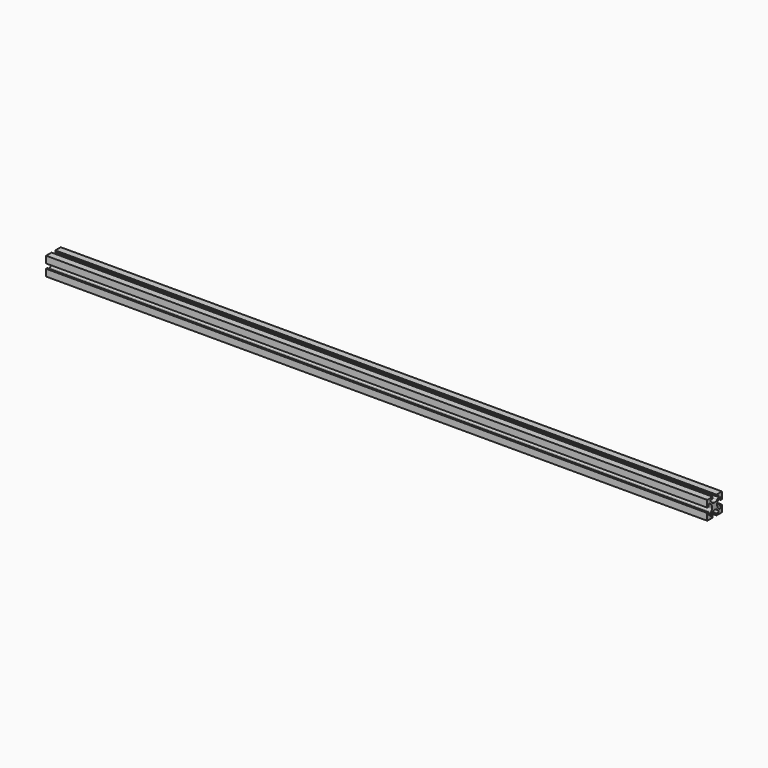
from build123d import *

# Parameters (mm, degrees)
F1_DEPTH = 914.4


with BuildPart() as f1:
    # F0 (on Right) → F1 (new body)
    with BuildSketch(Plane.YZ):
        with BuildLine():
            Line((10.4902, 12.7), (3.2385, 12.7))
            Line((3.2385, 12.7), (3.2385, 10.4902))
            Line((3.2385, 10.4902), (5.861584, 10.4902))
            ThreePointArc((5.861584, 10.4902), (7.034911, 9.706208), (6.75961, 8.322174))
            Line((6.75961, 8.322174), (4.433833, 5.996398))
            ThreePointArc((4.433833, 5.996398), (2.785762, 4.895192), (0.841731, 4.5085))
            Line((0.841731, 4.5085), (0, 4.5085))
            Line((0, 4.5085), (-0.841731, 4.5085))
            ThreePointArc((-0.841731, 4.5085), (-2.785762, 4.895192), (-4.433833, 5.996398))
            Line((-4.433833, 5.996398), (-6.75961, 8.322174))
            ThreePointArc((-6.75961, 8.322174), (-7.034911, 9.706208), (-5.861584, 10.4902))
            Line((-5.861584, 10.4902), (-3.2385, 10.4902))
            Line((-3.2385, 10.4902), (-3.2385, 12.7))
            Line((-3.2385, 12.7), (-10.4902, 12.7))
            Line((-10.4902, 12.7), (-12.7, 12.7))
            Line((-12.7, 12.7), (-12.7, 10.4902))
            Line((-12.7, 10.4902), (-12.7, 3.2385))
            Line((-12.7, 3.2385), (-10.4902, 3.2385))
            Line((-10.4902, 3.2385), (-10.4902, 5.861584))
            ThreePointArc((-10.4902, 5.861584), (-9.706208, 7.034911), (-8.322174, 6.75961))
            Line((-8.322174, 6.75961), (-5.996398, 4.433833))
            ThreePointArc((-5.996398, 4.433833), (-4.895192, 2.785762), (-4.5085, 0.841731))
            Line((-4.5085, 0.841731), (-4.5085, 0))
            Line((-4.5085, 0), (-4.5085, -0.841731))
            ThreePointArc((-4.5085, -0.841731), (-4.895192, -2.785762), (-5.996398, -4.433833))
            Line((-5.996398, -4.433833), (-8.322174, -6.75961))
            ThreePointArc((-8.322174, -6.75961), (-9.706208, -7.034911), (-10.4902, -5.861584))
            Line((-10.4902, -5.861584), (-10.4902, -3.2385))
            Line((-10.4902, -3.2385), (-12.7, -3.2385))
            Line((-12.7, -3.2385), (-12.7, -10.4902))
            Line((-12.7, -10.4902), (-12.7, -12.7))
            Line((-12.7, -12.7), (-10.4902, -12.7))
            Line((-10.4902, -12.7), (-3.2385, -12.7))
            Line((-3.2385, -12.7), (-3.2385, -10.4902))
            Line((-3.2385, -10.4902), (-5.861584, -10.4902))
            ThreePointArc((-5.861584, -10.4902), (-7.034911, -9.706208), (-6.75961, -8.322174))
            Line((-6.75961, -8.322174), (-4.433833, -5.996398))
            ThreePointArc((-4.433833, -5.996398), (-2.785762, -4.895192), (-0.841731, -4.5085))
            Line((-0.841731, -4.5085), (0, -4.5085))
            Line((0, -4.5085), (0.841731, -4.5085))
            ThreePointArc((0.841731, -4.5085), (2.785762, -4.895192), (4.433833, -5.996398))
            Line((4.433833, -5.996398), (6.75961, -8.322174))
            ThreePointArc((6.75961, -8.322174), (7.034911, -9.706208), (5.861584, -10.4902))
            Line((5.861584, -10.4902), (3.2385, -10.4902))
            Line((3.2385, -10.4902), (3.2385, -12.7))
            Line((3.2385, -12.7), (10.4902, -12.7))
            Line((10.4902, -12.7), (12.7, -12.7))
            Line((12.7, -12.7), (12.7, -10.4902))
            Line((12.7, -10.4902), (12.7, -3.2385))
            Line((12.7, -3.2385), (10.4902, -3.2385))
            Line((10.4902, -3.2385), (10.4902, -5.861584))
            ThreePointArc((10.4902, -5.861584), (9.706208, -7.034911), (8.322174, -6.75961))
            Line((8.322174, -6.75961), (5.996398, -4.433833))
            ThreePointArc((5.996398, -4.433833), (4.895192, -2.785762), (4.5085, -0.841731))
            Line((4.5085, -0.841731), (4.5085, 0))
            Line((4.5085, 0), (4.5085, 0.841731))
            ThreePointArc((4.5085, 0.841731), (4.895192, 2.785762), (5.996398, 4.433833))
            Line((5.996398, 4.433833), (8.322174, 6.75961))
            ThreePointArc((8.322174, 6.75961), (9.706208, 7.034911), (10.4902, 5.861584))
            Line((10.4902, 5.861584), (10.4902, 3.2385))
            Line((10.4902, 3.2385), (12.7, 3.2385))
            Line((12.7, 3.2385), (12.7, 10.4902))
            Line((12.7, 10.4902), (12.7, 12.7))
            Line((12.7, 12.7), (10.4902, 12.7))
        make_face()
    extrude(amount=F1_DEPTH)


solid = f1.part
